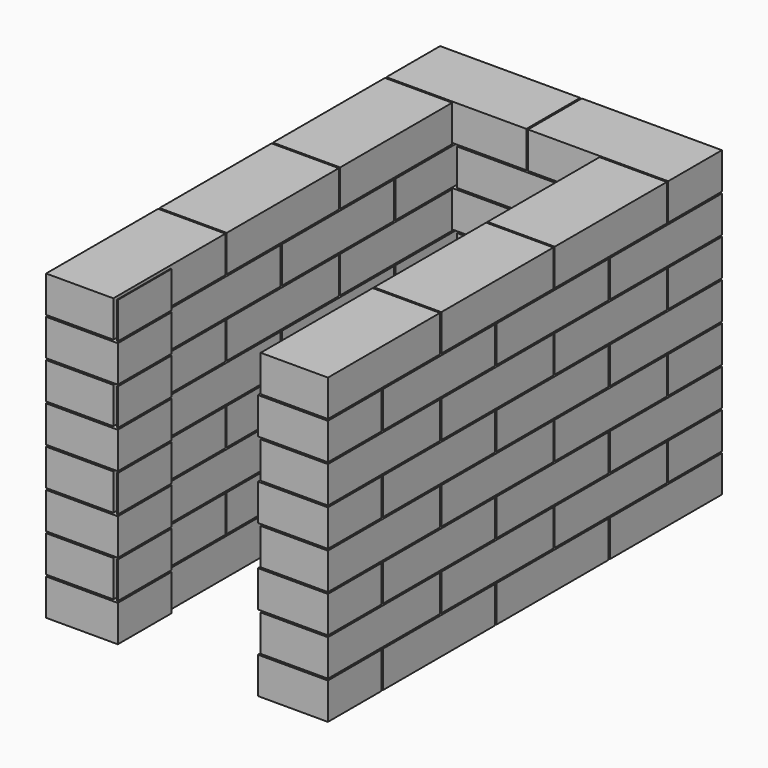
from build123d import *

# Parameters (mm, degrees)
BOX_W       = 250
BOX_H       = 250
BOX_DEPTH   = 545
BOX11_W     = 250
BOX11_H     = 120
BOX11_DEPTH = 65
BOX12_W     = 250
BOX12_H     = 120
BOX12_DEPTH = 65
BOX13_W     = 250
BOX13_H     = 120
BOX13_DEPTH = 65
BOX14_W     = 250
BOX14_H     = 120
BOX14_DEPTH = 65
BOX15_W     = 250
BOX15_H     = 120
BOX15_DEPTH = 65
BOX16_W     = 250
BOX16_H     = 120
BOX16_DEPTH = 65
BOX17_W     = 250
BOX17_H     = 120
BOX17_DEPTH = 65
BOX18_W     = 250
BOX18_H     = 120
BOX18_DEPTH = 65
BOX10_W     = 250
BOX10_H     = 120
BOX10_DEPTH = 65
BOX20_W     = 250
BOX20_H     = 120
BOX20_DEPTH = 65
BOX21_W     = 250
BOX21_H     = 120
BOX21_DEPTH = 65
BOX22_W     = 250
BOX22_H     = 120
BOX22_DEPTH = 65
BOX23_W     = 250
BOX23_H     = 120
BOX23_DEPTH = 65
BOX24_W     = 250
BOX24_H     = 120
BOX24_DEPTH = 65
BOX25_W     = 250
BOX25_H     = 120
BOX25_DEPTH = 65
BOX26_W     = 250
BOX26_H     = 120
BOX26_DEPTH = 65
BOX27_W     = 250
BOX27_H     = 120
BOX27_DEPTH = 65
BOX19_W     = 250
BOX19_H     = 120
BOX19_DEPTH = 65
BOX29_W     = 250
BOX29_H     = 120
BOX29_DEPTH = 65
BOX30_W     = 250
BOX30_H     = 120
BOX30_DEPTH = 65
BOX31_W     = 250
BOX31_H     = 120
BOX31_DEPTH = 65
BOX32_W     = 250
BOX32_H     = 120
BOX32_DEPTH = 65
BOX33_W     = 250
BOX33_H     = 120
BOX33_DEPTH = 65
BOX34_W     = 250
BOX34_H     = 120
BOX34_DEPTH = 65
BOX35_W     = 250
BOX35_H     = 120
BOX35_DEPTH = 65
BOX36_W     = 250
BOX36_H     = 120
BOX36_DEPTH = 65
BOX28_W     = 250
BOX28_H     = 120
BOX28_DEPTH = 65
BOX38_W     = 250
BOX38_H     = 120
BOX38_DEPTH = 65
BOX39_W     = 250
BOX39_H     = 120
BOX39_DEPTH = 65
BOX40_W     = 250
BOX40_H     = 120
BOX40_DEPTH = 65
BOX41_W     = 250
BOX41_H     = 120
BOX41_DEPTH = 65
BOX42_W     = 250
BOX42_H     = 120
BOX42_DEPTH = 65
BOX43_W     = 250
BOX43_H     = 120
BOX43_DEPTH = 65
BOX44_W     = 250
BOX44_H     = 120
BOX44_DEPTH = 65
BOX45_W     = 250
BOX45_H     = 120
BOX45_DEPTH = 65
BOX37_W     = 250
BOX37_H     = 120
BOX37_DEPTH = 65
BOX47_W     = 250
BOX47_H     = 120
BOX47_DEPTH = 65
BOX48_W     = 250
BOX48_H     = 120
BOX48_DEPTH = 65
BOX49_W     = 250
BOX49_H     = 120
BOX49_DEPTH = 65
BOX50_W     = 250
BOX50_H     = 120
BOX50_DEPTH = 65
BOX51_W     = 250
BOX51_H     = 120
BOX51_DEPTH = 65
BOX52_W     = 250
BOX52_H     = 120
BOX52_DEPTH = 65
BOX53_W     = 250
BOX53_H     = 120
BOX53_DEPTH = 65
BOX54_W     = 250
BOX54_H     = 120
BOX54_DEPTH = 65
BOX46_W     = 250
BOX46_H     = 120
BOX46_DEPTH = 65
BOX56_W     = 250
BOX56_H     = 120
BOX56_DEPTH = 65
BOX57_W     = 250
BOX57_H     = 120
BOX57_DEPTH = 65
BOX58_W     = 250
BOX58_H     = 120
BOX58_DEPTH = 65
BOX59_W     = 250
BOX59_H     = 120
BOX59_DEPTH = 65
BOX60_W     = 250
BOX60_H     = 120
BOX60_DEPTH = 65
BOX61_W     = 250
BOX61_H     = 120
BOX61_DEPTH = 65
BOX62_W     = 250
BOX62_H     = 120
BOX62_DEPTH = 65
BOX63_W     = 250
BOX63_H     = 120
BOX63_DEPTH = 65
BOX55_W     = 250
BOX55_H     = 120
BOX55_DEPTH = 65
BOX65_W     = 250
BOX65_H     = 120
BOX65_DEPTH = 65
BOX66_W     = 250
BOX66_H     = 120
BOX66_DEPTH = 65
BOX67_W     = 250
BOX67_H     = 120
BOX67_DEPTH = 65
BOX68_W     = 250
BOX68_H     = 120
BOX68_DEPTH = 65
BOX69_W     = 250
BOX69_H     = 120
BOX69_DEPTH = 65
BOX70_W     = 250
BOX70_H     = 120
BOX70_DEPTH = 65
BOX71_W     = 250
BOX71_H     = 120
BOX71_DEPTH = 65
BOX72_W     = 250
BOX72_H     = 120
BOX72_DEPTH = 65
BOX64_W     = 250
BOX64_H     = 120
BOX64_DEPTH = 65
BOX2_W      = 250
BOX2_H      = 120
BOX2_DEPTH  = 65
BOX3_W      = 250
BOX3_H      = 120
BOX3_DEPTH  = 65
BOX4_W      = 250
BOX4_H      = 120
BOX4_DEPTH  = 65
BOX5_W      = 250
BOX5_H      = 120
BOX5_DEPTH  = 65
BOX6_W      = 250
BOX6_H      = 120
BOX6_DEPTH  = 65
BOX7_W      = 250
BOX7_H      = 120
BOX7_DEPTH  = 65
BOX8_W      = 250
BOX8_H      = 120
BOX8_DEPTH  = 65
BOX9_W      = 250
BOX9_H      = 120
BOX9_DEPTH  = 65
BOX1_W      = 250
BOX1_H      = 120
BOX1_DEPTH  = 65


with BuildPart() as box:
    # Box → Box (new body)
    with BuildSketch(Plane(origin=(128, -38, 0), x_dir=(1, 0, 0), z_dir=(0, 0, 1))):
        with Locations((125, 125)):
            Rectangle(BOX_W, BOX_H)
    extrude(amount=BOX_DEPTH)


with BuildPart() as box11:
    # Box11 → Box11 (new body)
    with BuildSketch(Plane(origin=(253, 759, 68), x_dir=(1, 0, 0), z_dir=(0, 0, 1))):
        with Locations((125, 60)):
            Rectangle(BOX11_W, BOX11_H)
    extrude(amount=BOX11_DEPTH)


with BuildPart() as box12:
    # Box12 → Box12 (new body)
    with BuildSketch(Plane(origin=(126.5, 0, 68), x_dir=(1, 0, 0), z_dir=(0, 0, 1))):
        with Locations((125, 60)):
            Rectangle(BOX12_W, BOX12_H)
    extrude(amount=BOX12_DEPTH)


with BuildPart() as box13:
    # Box13 → Box13 (new body)
    with BuildSketch(Plane(origin=(120, 0, 68), x_dir=(0, 1, 0), z_dir=(0, 0, 1))):
        with Locations((125, 60)):
            Rectangle(BOX13_W, BOX13_H)
    extrude(amount=BOX13_DEPTH)


with BuildPart() as box14:
    # Box14 → Box14 (new body)
    with BuildSketch(Plane(origin=(120, 253, 68), x_dir=(0, 1, 0), z_dir=(0, 0, 1))):
        with Locations((125, 60)):
            Rectangle(BOX14_W, BOX14_H)
    extrude(amount=BOX14_DEPTH)


with BuildPart() as box15:
    # Box15 → Box15 (new body)
    with BuildSketch(Plane(origin=(120, 506, 68), x_dir=(0, 1, 0), z_dir=(0, 0, 1))):
        with Locations((125, 60)):
            Rectangle(BOX15_W, BOX15_H)
    extrude(amount=BOX15_DEPTH)


with BuildPart() as box16:
    # Box16 → Box16 (new body)
    with BuildSketch(Plane(origin=(503, 0, 68), x_dir=(0, 1, 0), z_dir=(0, 0, 1))):
        with Locations((125, 60)):
            Rectangle(BOX16_W, BOX16_H)
    extrude(amount=BOX16_DEPTH)


with BuildPart() as box17:
    # Box17 → Box17 (new body)
    with BuildSketch(Plane(origin=(503, 253, 68), x_dir=(0, 1, 0), z_dir=(0, 0, 1))):
        with Locations((125, 60)):
            Rectangle(BOX17_W, BOX17_H)
    extrude(amount=BOX17_DEPTH)


with BuildPart() as box18:
    # Box18 → Box18 (new body)
    with BuildSketch(Plane(origin=(503, 506, 68), x_dir=(0, 1, 0), z_dir=(0, 0, 1))):
        with Locations((125, 60)):
            Rectangle(BOX18_W, BOX18_H)
    extrude(amount=BOX18_DEPTH)


with BuildPart() as compound_row1:
    # Box10 → Box10 (new body)
    with BuildSketch(Plane(origin=(0, 759, 68), x_dir=(1, 0, 0), z_dir=(0, 0, 1))):
        with Locations((125, 60)):
            Rectangle(BOX10_W, BOX10_H)
    extrude(amount=BOX10_DEPTH)

    # Compound_row1: union Box11, Box12, Box13, Box14, Box15, Box16, Box17, Box18
    add(box11.part)
    add(box12.part)
    add(box13.part)
    add(box14.part)
    add(box15.part)
    add(box16.part)
    add(box17.part)
    add(box18.part)


with BuildPart() as box20:
    # Box20 → Box20 (new body)
    with BuildSketch(Plane(origin=(253, 0, 136), x_dir=(1, 0, 0), z_dir=(0, 0, 1))):
        with Locations((125, 60)):
            Rectangle(BOX20_W, BOX20_H)
    extrude(amount=BOX20_DEPTH)


with BuildPart() as box21:
    # Box21 → Box21 (new body)
    with BuildSketch(Plane(origin=(126.5, 759, 136), x_dir=(1, 0, 0), z_dir=(0, 0, 1))):
        with Locations((125, 60)):
            Rectangle(BOX21_W, BOX21_H)
    extrude(amount=BOX21_DEPTH)


with BuildPart() as box22:
    # Box22 → Box22 (new body)
    with BuildSketch(Plane(origin=(120, 123, 136), x_dir=(0, 1, 0), z_dir=(0, 0, 1))):
        with Locations((125, 60)):
            Rectangle(BOX22_W, BOX22_H)
    extrude(amount=BOX22_DEPTH)


with BuildPart() as box23:
    # Box23 → Box23 (new body)
    with BuildSketch(Plane(origin=(120, 376, 136), x_dir=(0, 1, 0), z_dir=(0, 0, 1))):
        with Locations((125, 60)):
            Rectangle(BOX23_W, BOX23_H)
    extrude(amount=BOX23_DEPTH)


with BuildPart() as box24:
    # Box24 → Box24 (new body)
    with BuildSketch(Plane(origin=(120, 629, 136), x_dir=(0, 1, 0), z_dir=(0, 0, 1))):
        with Locations((125, 60)):
            Rectangle(BOX24_W, BOX24_H)
    extrude(amount=BOX24_DEPTH)


with BuildPart() as box25:
    # Box25 → Box25 (new body)
    with BuildSketch(Plane(origin=(503, 123, 136), x_dir=(0, 1, 0), z_dir=(0, 0, 1))):
        with Locations((125, 60)):
            Rectangle(BOX25_W, BOX25_H)
    extrude(amount=BOX25_DEPTH)


with BuildPart() as box26:
    # Box26 → Box26 (new body)
    with BuildSketch(Plane(origin=(503, 376, 136), x_dir=(0, 1, 0), z_dir=(0, 0, 1))):
        with Locations((125, 60)):
            Rectangle(BOX26_W, BOX26_H)
    extrude(amount=BOX26_DEPTH)


with BuildPart() as box27:
    # Box27 → Box27 (new body)
    with BuildSketch(Plane(origin=(503, 629, 136), x_dir=(0, 1, 0), z_dir=(0, 0, 1))):
        with Locations((125, 60)):
            Rectangle(BOX27_W, BOX27_H)
    extrude(amount=BOX27_DEPTH)


with BuildPart() as compound_row2:
    # Box19 → Box19 (new body)
    with BuildSketch(Plane.XY.offset(136)):
        with Locations((125, 60)):
            Rectangle(BOX19_W, BOX19_H)
    extrude(amount=BOX19_DEPTH)

    # Compound_row2: union Box20, Box21, Box22, Box23, Box24, Box25, Box26, Box27
    add(box20.part)
    add(box21.part)
    add(box22.part)
    add(box23.part)
    add(box24.part)
    add(box25.part)
    add(box26.part)
    add(box27.part)


with BuildPart() as box29:
    # Box29 → Box29 (new body)
    with BuildSketch(Plane(origin=(253, 759, 204), x_dir=(1, 0, 0), z_dir=(0, 0, 1))):
        with Locations((125, 60)):
            Rectangle(BOX29_W, BOX29_H)
    extrude(amount=BOX29_DEPTH)


with BuildPart() as box30:
    # Box30 → Box30 (new body)
    with BuildSketch(Plane(origin=(126.5, 0, 204), x_dir=(1, 0, 0), z_dir=(0, 0, 1))):
        with Locations((125, 60)):
            Rectangle(BOX30_W, BOX30_H)
    extrude(amount=BOX30_DEPTH)


with BuildPart() as box31:
    # Box31 → Box31 (new body)
    with BuildSketch(Plane(origin=(120, 0, 204), x_dir=(0, 1, 0), z_dir=(0, 0, 1))):
        with Locations((125, 60)):
            Rectangle(BOX31_W, BOX31_H)
    extrude(amount=BOX31_DEPTH)


with BuildPart() as box32:
    # Box32 → Box32 (new body)
    with BuildSketch(Plane(origin=(120, 253, 204), x_dir=(0, 1, 0), z_dir=(0, 0, 1))):
        with Locations((125, 60)):
            Rectangle(BOX32_W, BOX32_H)
    extrude(amount=BOX32_DEPTH)


with BuildPart() as box33:
    # Box33 → Box33 (new body)
    with BuildSketch(Plane(origin=(120, 506, 204), x_dir=(0, 1, 0), z_dir=(0, 0, 1))):
        with Locations((125, 60)):
            Rectangle(BOX33_W, BOX33_H)
    extrude(amount=BOX33_DEPTH)


with BuildPart() as box34:
    # Box34 → Box34 (new body)
    with BuildSketch(Plane(origin=(503, 0, 204), x_dir=(0, 1, 0), z_dir=(0, 0, 1))):
        with Locations((125, 60)):
            Rectangle(BOX34_W, BOX34_H)
    extrude(amount=BOX34_DEPTH)


with BuildPart() as box35:
    # Box35 → Box35 (new body)
    with BuildSketch(Plane(origin=(503, 253, 204), x_dir=(0, 1, 0), z_dir=(0, 0, 1))):
        with Locations((125, 60)):
            Rectangle(BOX35_W, BOX35_H)
    extrude(amount=BOX35_DEPTH)


with BuildPart() as box36:
    # Box36 → Box36 (new body)
    with BuildSketch(Plane(origin=(503, 506, 204), x_dir=(0, 1, 0), z_dir=(0, 0, 1))):
        with Locations((125, 60)):
            Rectangle(BOX36_W, BOX36_H)
    extrude(amount=BOX36_DEPTH)


with BuildPart() as compound_row3:
    # Box28 → Box28 (new body)
    with BuildSketch(Plane(origin=(0, 759, 204), x_dir=(1, 0, 0), z_dir=(0, 0, 1))):
        with Locations((125, 60)):
            Rectangle(BOX28_W, BOX28_H)
    extrude(amount=BOX28_DEPTH)

    # Compound_row3: union Box29, Box30, Box31, Box32, Box33, Box34, Box35, Box36
    add(box29.part)
    add(box30.part)
    add(box31.part)
    add(box32.part)
    add(box33.part)
    add(box34.part)
    add(box35.part)
    add(box36.part)


with BuildPart() as box38:
    # Box38 → Box38 (new body)
    with BuildSketch(Plane(origin=(253, 0, 272), x_dir=(1, 0, 0), z_dir=(0, 0, 1))):
        with Locations((125, 60)):
            Rectangle(BOX38_W, BOX38_H)
    extrude(amount=BOX38_DEPTH)


with BuildPart() as box39:
    # Box39 → Box39 (new body)
    with BuildSketch(Plane(origin=(126.5, 759, 272), x_dir=(1, 0, 0), z_dir=(0, 0, 1))):
        with Locations((125, 60)):
            Rectangle(BOX39_W, BOX39_H)
    extrude(amount=BOX39_DEPTH)


with BuildPart() as box40:
    # Box40 → Box40 (new body)
    with BuildSketch(Plane(origin=(120, 123, 272), x_dir=(0, 1, 0), z_dir=(0, 0, 1))):
        with Locations((125, 60)):
            Rectangle(BOX40_W, BOX40_H)
    extrude(amount=BOX40_DEPTH)


with BuildPart() as box41:
    # Box41 → Box41 (new body)
    with BuildSketch(Plane(origin=(120, 376, 272), x_dir=(0, 1, 0), z_dir=(0, 0, 1))):
        with Locations((125, 60)):
            Rectangle(BOX41_W, BOX41_H)
    extrude(amount=BOX41_DEPTH)


with BuildPart() as box42:
    # Box42 → Box42 (new body)
    with BuildSketch(Plane(origin=(120, 629, 272), x_dir=(0, 1, 0), z_dir=(0, 0, 1))):
        with Locations((125, 60)):
            Rectangle(BOX42_W, BOX42_H)
    extrude(amount=BOX42_DEPTH)


with BuildPart() as box43:
    # Box43 → Box43 (new body)
    with BuildSketch(Plane(origin=(503, 123, 272), x_dir=(0, 1, 0), z_dir=(0, 0, 1))):
        with Locations((125, 60)):
            Rectangle(BOX43_W, BOX43_H)
    extrude(amount=BOX43_DEPTH)


with BuildPart() as box44:
    # Box44 → Box44 (new body)
    with BuildSketch(Plane(origin=(503, 376, 272), x_dir=(0, 1, 0), z_dir=(0, 0, 1))):
        with Locations((125, 60)):
            Rectangle(BOX44_W, BOX44_H)
    extrude(amount=BOX44_DEPTH)


with BuildPart() as box45:
    # Box45 → Box45 (new body)
    with BuildSketch(Plane(origin=(503, 629, 272), x_dir=(0, 1, 0), z_dir=(0, 0, 1))):
        with Locations((125, 60)):
            Rectangle(BOX45_W, BOX45_H)
    extrude(amount=BOX45_DEPTH)


with BuildPart() as compound_row4:
    # Box37 → Box37 (new body)
    with BuildSketch(Plane.XY.offset(272)):
        with Locations((125, 60)):
            Rectangle(BOX37_W, BOX37_H)
    extrude(amount=BOX37_DEPTH)

    # Compound_row4: union Box38, Box39, Box40, Box41, Box42, Box43, Box44, Box45
    add(box38.part)
    add(box39.part)
    add(box40.part)
    add(box41.part)
    add(box42.part)
    add(box43.part)
    add(box44.part)
    add(box45.part)


with BuildPart() as box47:
    # Box47 → Box47 (new body)
    with BuildSketch(Plane(origin=(253, 759, 340), x_dir=(1, 0, 0), z_dir=(0, 0, 1))):
        with Locations((125, 60)):
            Rectangle(BOX47_W, BOX47_H)
    extrude(amount=BOX47_DEPTH)


with BuildPart() as box48:
    # Box48 → Box48 (new body)
    with BuildSketch(Plane(origin=(126.5, 0, 340), x_dir=(1, 0, 0), z_dir=(0, 0, 1))):
        with Locations((125, 60)):
            Rectangle(BOX48_W, BOX48_H)
    extrude(amount=BOX48_DEPTH)


with BuildPart() as box49:
    # Box49 → Box49 (new body)
    with BuildSketch(Plane(origin=(120, 0, 340), x_dir=(0, 1, 0), z_dir=(0, 0, 1))):
        with Locations((125, 60)):
            Rectangle(BOX49_W, BOX49_H)
    extrude(amount=BOX49_DEPTH)


with BuildPart() as box50:
    # Box50 → Box50 (new body)
    with BuildSketch(Plane(origin=(120, 253, 340), x_dir=(0, 1, 0), z_dir=(0, 0, 1))):
        with Locations((125, 60)):
            Rectangle(BOX50_W, BOX50_H)
    extrude(amount=BOX50_DEPTH)


with BuildPart() as box51:
    # Box51 → Box51 (new body)
    with BuildSketch(Plane(origin=(120, 506, 340), x_dir=(0, 1, 0), z_dir=(0, 0, 1))):
        with Locations((125, 60)):
            Rectangle(BOX51_W, BOX51_H)
    extrude(amount=BOX51_DEPTH)


with BuildPart() as box52:
    # Box52 → Box52 (new body)
    with BuildSketch(Plane(origin=(503, 0, 340), x_dir=(0, 1, 0), z_dir=(0, 0, 1))):
        with Locations((125, 60)):
            Rectangle(BOX52_W, BOX52_H)
    extrude(amount=BOX52_DEPTH)


with BuildPart() as box53:
    # Box53 → Box53 (new body)
    with BuildSketch(Plane(origin=(503, 253, 340), x_dir=(0, 1, 0), z_dir=(0, 0, 1))):
        with Locations((125, 60)):
            Rectangle(BOX53_W, BOX53_H)
    extrude(amount=BOX53_DEPTH)


with BuildPart() as box54:
    # Box54 → Box54 (new body)
    with BuildSketch(Plane(origin=(503, 506, 340), x_dir=(0, 1, 0), z_dir=(0, 0, 1))):
        with Locations((125, 60)):
            Rectangle(BOX54_W, BOX54_H)
    extrude(amount=BOX54_DEPTH)


with BuildPart() as compound_row5:
    # Box46 → Box46 (new body)
    with BuildSketch(Plane(origin=(0, 759, 340), x_dir=(1, 0, 0), z_dir=(0, 0, 1))):
        with Locations((125, 60)):
            Rectangle(BOX46_W, BOX46_H)
    extrude(amount=BOX46_DEPTH)

    # Compound_row5: union Box47, Box48, Box49, Box50, Box51, Box52, Box53, Box54
    add(box47.part)
    add(box48.part)
    add(box49.part)
    add(box50.part)
    add(box51.part)
    add(box52.part)
    add(box53.part)
    add(box54.part)


with BuildPart() as box56:
    # Box56 → Box56 (new body)
    with BuildSketch(Plane(origin=(253, 0, 408), x_dir=(1, 0, 0), z_dir=(0, 0, 1))):
        with Locations((125, 60)):
            Rectangle(BOX56_W, BOX56_H)
    extrude(amount=BOX56_DEPTH)


with BuildPart() as box57:
    # Box57 → Box57 (new body)
    with BuildSketch(Plane(origin=(126.5, 759, 408), x_dir=(1, 0, 0), z_dir=(0, 0, 1))):
        with Locations((125, 60)):
            Rectangle(BOX57_W, BOX57_H)
    extrude(amount=BOX57_DEPTH)


with BuildPart() as box58:
    # Box58 → Box58 (new body)
    with BuildSketch(Plane(origin=(120, 123, 408), x_dir=(0, 1, 0), z_dir=(0, 0, 1))):
        with Locations((125, 60)):
            Rectangle(BOX58_W, BOX58_H)
    extrude(amount=BOX58_DEPTH)


with BuildPart() as box59:
    # Box59 → Box59 (new body)
    with BuildSketch(Plane(origin=(120, 376, 408), x_dir=(0, 1, 0), z_dir=(0, 0, 1))):
        with Locations((125, 60)):
            Rectangle(BOX59_W, BOX59_H)
    extrude(amount=BOX59_DEPTH)


with BuildPart() as box60:
    # Box60 → Box60 (new body)
    with BuildSketch(Plane(origin=(120, 629, 408), x_dir=(0, 1, 0), z_dir=(0, 0, 1))):
        with Locations((125, 60)):
            Rectangle(BOX60_W, BOX60_H)
    extrude(amount=BOX60_DEPTH)


with BuildPart() as box61:
    # Box61 → Box61 (new body)
    with BuildSketch(Plane(origin=(503, 123, 408), x_dir=(0, 1, 0), z_dir=(0, 0, 1))):
        with Locations((125, 60)):
            Rectangle(BOX61_W, BOX61_H)
    extrude(amount=BOX61_DEPTH)


with BuildPart() as box62:
    # Box62 → Box62 (new body)
    with BuildSketch(Plane(origin=(503, 376, 408), x_dir=(0, 1, 0), z_dir=(0, 0, 1))):
        with Locations((125, 60)):
            Rectangle(BOX62_W, BOX62_H)
    extrude(amount=BOX62_DEPTH)


with BuildPart() as box63:
    # Box63 → Box63 (new body)
    with BuildSketch(Plane(origin=(503, 629, 408), x_dir=(0, 1, 0), z_dir=(0, 0, 1))):
        with Locations((125, 60)):
            Rectangle(BOX63_W, BOX63_H)
    extrude(amount=BOX63_DEPTH)


with BuildPart() as compound_row6:
    # Box55 → Box55 (new body)
    with BuildSketch(Plane.XY.offset(408)):
        with Locations((125, 60)):
            Rectangle(BOX55_W, BOX55_H)
    extrude(amount=BOX55_DEPTH)

    # Compound_row6: union Box56, Box57, Box58, Box59, Box60, Box61, Box62, Box63
    add(box56.part)
    add(box57.part)
    add(box58.part)
    add(box59.part)
    add(box60.part)
    add(box61.part)
    add(box62.part)
    add(box63.part)


with BuildPart() as box65:
    # Box65 → Box65 (new body)
    with BuildSketch(Plane(origin=(253, 759, 476), x_dir=(1, 0, 0), z_dir=(0, 0, 1))):
        with Locations((125, 60)):
            Rectangle(BOX65_W, BOX65_H)
    extrude(amount=BOX65_DEPTH)


with BuildPart() as box66:
    # Box66 → Box66 (new body)
    with BuildSketch(Plane(origin=(126.5, 0, 476), x_dir=(1, 0, 0), z_dir=(0, 0, 1))):
        with Locations((125, 60)):
            Rectangle(BOX66_W, BOX66_H)
    extrude(amount=BOX66_DEPTH)


with BuildPart() as box67:
    # Box67 → Box67 (new body)
    with BuildSketch(Plane(origin=(120, 0, 476), x_dir=(0, 1, 0), z_dir=(0, 0, 1))):
        with Locations((125, 60)):
            Rectangle(BOX67_W, BOX67_H)
    extrude(amount=BOX67_DEPTH)


with BuildPart() as box68:
    # Box68 → Box68 (new body)
    with BuildSketch(Plane(origin=(120, 253, 476), x_dir=(0, 1, 0), z_dir=(0, 0, 1))):
        with Locations((125, 60)):
            Rectangle(BOX68_W, BOX68_H)
    extrude(amount=BOX68_DEPTH)


with BuildPart() as box69:
    # Box69 → Box69 (new body)
    with BuildSketch(Plane(origin=(120, 506, 476), x_dir=(0, 1, 0), z_dir=(0, 0, 1))):
        with Locations((125, 60)):
            Rectangle(BOX69_W, BOX69_H)
    extrude(amount=BOX69_DEPTH)


with BuildPart() as box70:
    # Box70 → Box70 (new body)
    with BuildSketch(Plane(origin=(503, 0, 476), x_dir=(0, 1, 0), z_dir=(0, 0, 1))):
        with Locations((125, 60)):
            Rectangle(BOX70_W, BOX70_H)
    extrude(amount=BOX70_DEPTH)


with BuildPart() as box71:
    # Box71 → Box71 (new body)
    with BuildSketch(Plane(origin=(503, 253, 476), x_dir=(0, 1, 0), z_dir=(0, 0, 1))):
        with Locations((125, 60)):
            Rectangle(BOX71_W, BOX71_H)
    extrude(amount=BOX71_DEPTH)


with BuildPart() as box72:
    # Box72 → Box72 (new body)
    with BuildSketch(Plane(origin=(503, 506, 476), x_dir=(0, 1, 0), z_dir=(0, 0, 1))):
        with Locations((125, 60)):
            Rectangle(BOX72_W, BOX72_H)
    extrude(amount=BOX72_DEPTH)


with BuildPart() as compound_row7:
    # Box64 → Box64 (new body)
    with BuildSketch(Plane(origin=(0, 759, 476), x_dir=(1, 0, 0), z_dir=(0, 0, 1))):
        with Locations((125, 60)):
            Rectangle(BOX64_W, BOX64_H)
    extrude(amount=BOX64_DEPTH)

    # Compound_row7: union Box65, Box66, Box67, Box68, Box69, Box70, Box71, Box72
    add(box65.part)
    add(box66.part)
    add(box67.part)
    add(box68.part)
    add(box69.part)
    add(box70.part)
    add(box71.part)
    add(box72.part)


with BuildPart() as box2:
    # Box2 → Box2 (new body)
    with BuildSketch(Plane(origin=(253, 0, 0), x_dir=(1, 0, 0), z_dir=(0, 0, 1))):
        with Locations((125, 60)):
            Rectangle(BOX2_W, BOX2_H)
    extrude(amount=BOX2_DEPTH)


with BuildPart() as box3:
    # Box3 → Box3 (new body)
    with BuildSketch(Plane(origin=(126.5, 759, 0), x_dir=(1, 0, 0), z_dir=(0, 0, 1))):
        with Locations((125, 60)):
            Rectangle(BOX3_W, BOX3_H)
    extrude(amount=BOX3_DEPTH)


with BuildPart() as box4:
    # Box4 → Box4 (new body)
    with BuildSketch(Plane(origin=(120, 123, 0), x_dir=(0, 1, 0), z_dir=(0, 0, 1))):
        with Locations((125, 60)):
            Rectangle(BOX4_W, BOX4_H)
    extrude(amount=BOX4_DEPTH)


with BuildPart() as box5:
    # Box5 → Box5 (new body)
    with BuildSketch(Plane(origin=(120, 376, 0), x_dir=(0, 1, 0), z_dir=(0, 0, 1))):
        with Locations((125, 60)):
            Rectangle(BOX5_W, BOX5_H)
    extrude(amount=BOX5_DEPTH)


with BuildPart() as box6:
    # Box6 → Box6 (new body)
    with BuildSketch(Plane(origin=(120, 629, 0), x_dir=(0, 1, 0), z_dir=(0, 0, 1))):
        with Locations((125, 60)):
            Rectangle(BOX6_W, BOX6_H)
    extrude(amount=BOX6_DEPTH)


with BuildPart() as box7:
    # Box7 → Box7 (new body)
    with BuildSketch(Plane(origin=(503, 123, 0), x_dir=(0, 1, 0), z_dir=(0, 0, 1))):
        with Locations((125, 60)):
            Rectangle(BOX7_W, BOX7_H)
    extrude(amount=BOX7_DEPTH)


with BuildPart() as box8:
    # Box8 → Box8 (new body)
    with BuildSketch(Plane(origin=(503, 376, 0), x_dir=(0, 1, 0), z_dir=(0, 0, 1))):
        with Locations((125, 60)):
            Rectangle(BOX8_W, BOX8_H)
    extrude(amount=BOX8_DEPTH)


with BuildPart() as box9:
    # Box9 → Box9 (new body)
    with BuildSketch(Plane(origin=(503, 629, 0), x_dir=(0, 1, 0), z_dir=(0, 0, 1))):
        with Locations((125, 60)):
            Rectangle(BOX9_W, BOX9_H)
    extrude(amount=BOX9_DEPTH)


with BuildPart() as cut:
    # Box1 → Box1 (new body)
    with BuildSketch(Plane.XY):
        with Locations((125, 60)):
            Rectangle(BOX1_W, BOX1_H)
    extrude(amount=BOX1_DEPTH)

    # Compound_row0: union Box2, Box3, Box4, Box5, Box6, Box7, Box8, Box9
    add(box2.part)
    add(box3.part)
    add(box4.part)
    add(box5.part)
    add(box6.part)
    add(box7.part)
    add(box8.part)
    add(box9.part)

    # Compound040: union Compound_row1, Compound_row2, Compound_row3, Compound_row4, Compound_row5, Compound_row6, Compound_row7
    add(compound_row1.part)
    add(compound_row2.part)
    add(compound_row3.part)
    add(compound_row4.part)
    add(compound_row5.part)
    add(compound_row6.part)
    add(compound_row7.part)

    # Cut: cut Box
    add(box.part, mode=Mode.SUBTRACT)


solid = cut.part
